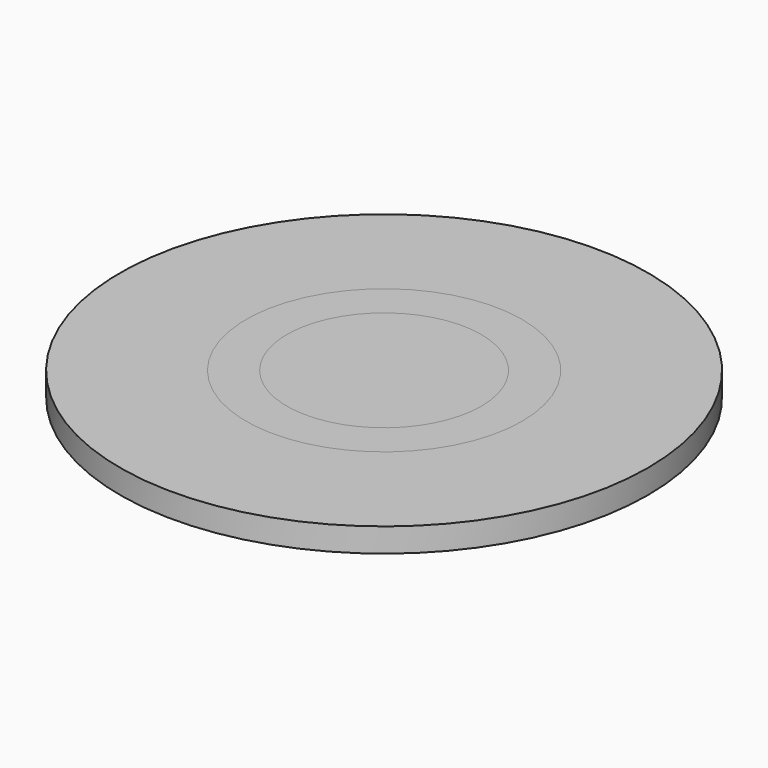
from build123d import *

# Parameters (mm, degrees)
F0_R     = 5.75
F0_R_2   = 4.05
F1_DEPTH = 2
F0_R_3   = 11
F2_DEPTH = 1
F3_DEPTH = 4.5


with BuildPart() as f1:
    # F0 (on Top) → F1 (new body)
    with BuildSketch(Plane.XY):
        Circle(F0_R)
        Circle(F0_R_2, mode=Mode.SUBTRACT)
    extrude(amount=-F1_DEPTH)


with BuildPart() as f2:
    # F0 (on Top) → F2 (new body)
    with BuildSketch(Plane.XY):
        Circle(F0_R_3)
        Circle(F0_R, mode=Mode.SUBTRACT)
    extrude(amount=-F2_DEPTH)


with BuildPart() as f3:
    # F0 (on Top) → F3 (new body)
    with BuildSketch(Plane.XY):
        Circle(F0_R_2)
    extrude(amount=-F3_DEPTH)


solid = Compound([f1.part, f2.part, f3.part])
